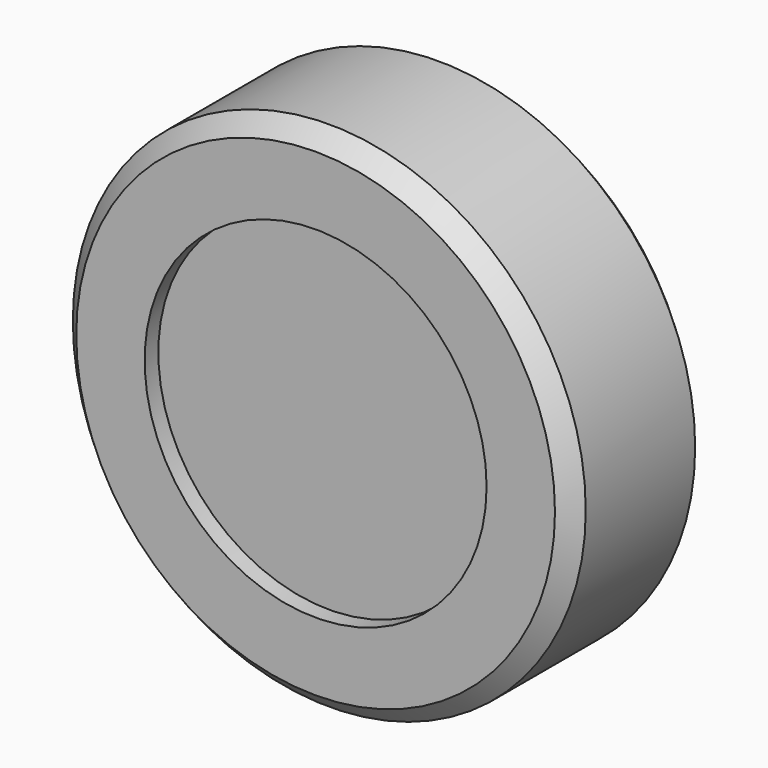
from build123d import *

# Parameters (mm, degrees)
SKETCH_R        = 15
PAD_DEPTH       = 10
POCKET_DEPTH    = 6
SKETCH002_R     = 10
POCKET001_DEPTH = 1
CHAMFER_SIZE    = 1


with BuildPart() as part:
    # Sketch → Pad (new body)
    with BuildSketch(Plane.XZ):
        Circle(SKETCH_R)
    extrude(amount=PAD_DEPTH)

    # Sketch001 → Pocket (cut)
    with BuildSketch(Plane.XZ):
        Polygon((6.45, -3.723909), (6.45, 3.723909), (0, 7.447818), (-6.45, 3.723909), (-6.45, -3.723909), (0, -7.447818), align=None)
    extrude(amount=POCKET_DEPTH, mode=Mode.SUBTRACT)

    # Sketch002 (on Face3 of Pocket) → Pocket001 (cut)
    with BuildSketch(Plane.XZ.offset(10)):
        Circle(SKETCH002_R)
    extrude(amount=-POCKET001_DEPTH, mode=Mode.SUBTRACT)

    # Chamfer
    chamfer_edges = [part.edges().sort_by_distance(p)[0] for p in [
        (-15, -10, 0),
        (-15, 0, 0),
    ]]
    chamfer(chamfer_edges, length=CHAMFER_SIZE)


solid = part.part
